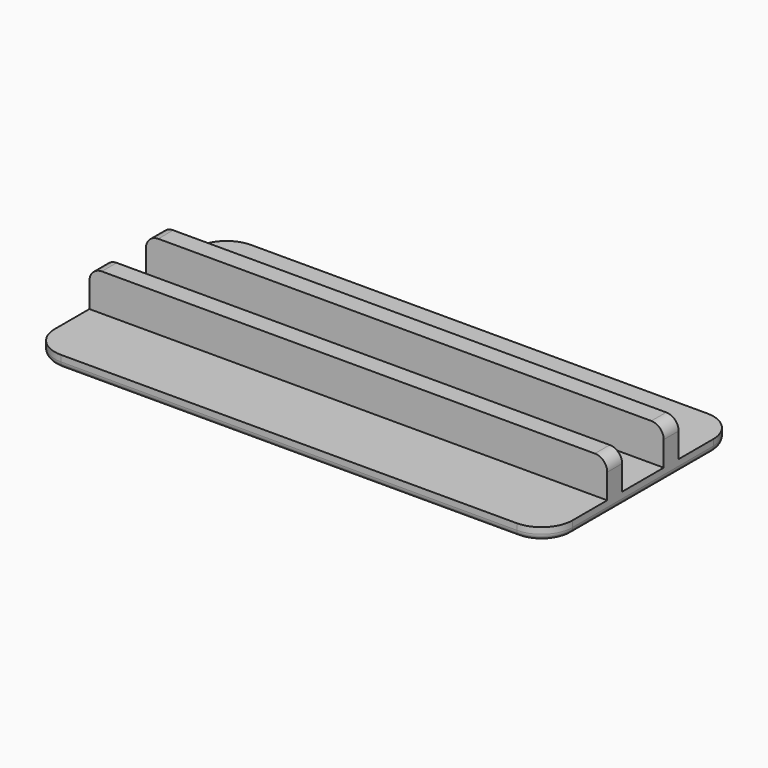
from build123d import *

# Parameters (mm, degrees)
F0_W     = 83.6
F0_H     = 3
F0_H_2   = 8.4
F0_H_3   = 12
F1_DEPTH = 2
F2_DEPTH = 6
F3_R     = 2
F4_R     = 5
F5_R     = 1


with BuildPart() as f1:
    # F0 (on Top) → F1 (new body)
    with BuildSketch(Plane.XY):
        with Locations((41.8, 9.9)):
            Rectangle(F0_W, F0_H)
        with Locations((41.8, -1.5)):
            Rectangle(F0_W, F0_H)
        with Locations((41.8, 4.2)):
            Rectangle(F0_W, F0_H_2)
        with Locations((41.8, 17.4)):
            Rectangle(F0_W, F0_H_3)
        with Locations((41.8, -9)):
            Rectangle(F0_W, F0_H_3)
    extrude(amount=-F1_DEPTH)

    # F0 (on Top) → F2 (join)
    with BuildSketch(Plane.XY):
        with Locations((41.8, 9.9)):
            Rectangle(F0_W, F0_H)
        with Locations((41.8, -1.5)):
            Rectangle(F0_W, F0_H)
    extrude(amount=F2_DEPTH)

    # F3
    f3_edges = [f1.edges().sort_by_distance(p)[0] for p in [
        (0, 9.9, 6),
        (0, -1.5, 6),
        (83.6, 9.9, 6),
        (83.6, -1.5, 6),
    ]]
    fillet(f3_edges, radius=F3_R)

    # F4
    f4_edges = [f1.edges().sort_by_distance(p)[0] for p in [
        (83.6, -15, -1),
        (83.6, 23.4, -1),
        (0, 23.4, -1),
        (0, -15, -1),
    ]]
    fillet(f4_edges, radius=F4_R)

    # F5
    f5_edges = [f1.edges().sort_by_distance(p)[0] for p in [
        (41.8, 23.4, -2),
    ]]
    fillet(f5_edges, radius=F5_R)


solid = f1.part
